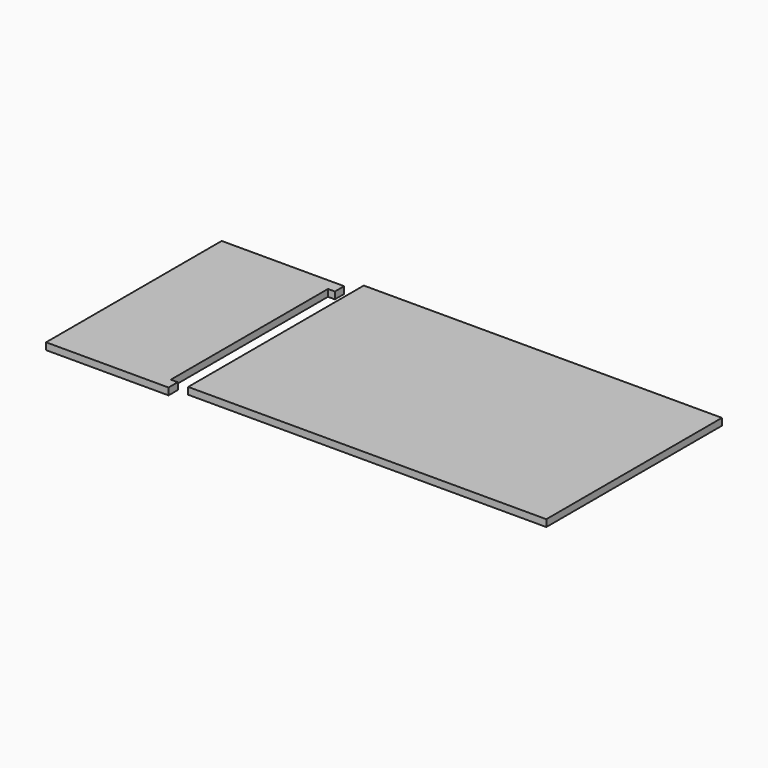
from build123d import *

# Parameters (mm, degrees)
F0_W     = 135
F0_H     = 75
F1_DEPTH = 3
F2_R     = 1.5
F3_DEPTH = 25
F4_W     = 155
F4_H     = 95
F5_DEPTH = 3
F7_DEPTH = 3


with BuildPart() as f1:
    # F0 (on Top) → F1 (new body)
    with BuildSketch(Plane.XY):
        with Locations((67.5, 37.5)):
            Rectangle(F0_W, F0_H)
    extrude(amount=F1_DEPTH)

    # F2 (on face) → F3 (cut)
    with BuildSketch(Plane.XY.offset(3)):
        with Locations((3.5, 70.914406)):
            Circle(F2_R)
        with Locations((3.5, 3.914406)):
            Circle(F2_R)
        with Locations((131.5, 3.914406)):
            Circle(F2_R)
        with Locations((131.5, 39.914406)):
            Circle(F2_R)
    extrude(amount=-F3_DEPTH, mode=Mode.SUBTRACT)


with BuildPart() as f5:
    # F4 (on face) → F5 (new body)
    with BuildSketch(Plane.XY.offset(3)):
        with Locations((67.5, 37.5)):
            Rectangle(F4_W, F4_H)
    extrude(amount=F5_DEPTH)


with BuildPart() as f7:
    # F6 (on face) → F7 (new body)
    with BuildSketch(Plane(origin=(0, 0, 3), x_dir=(1, 0, 0), z_dir=(0, 0, -1))):
        Polygon((-18.498036, 10), (-21.498036, 10), (-71.498036, 10), (-71.498036, -85), (-21.498036, -85), (-18.498036, -85), (-18.498036, -80), (-21.498036, -80), (-21.498036, 5), (-18.498036, 5), align=None)
    extrude(amount=F7_DEPTH)


solid = Compound([f1.part, f5.part, f7.part])
